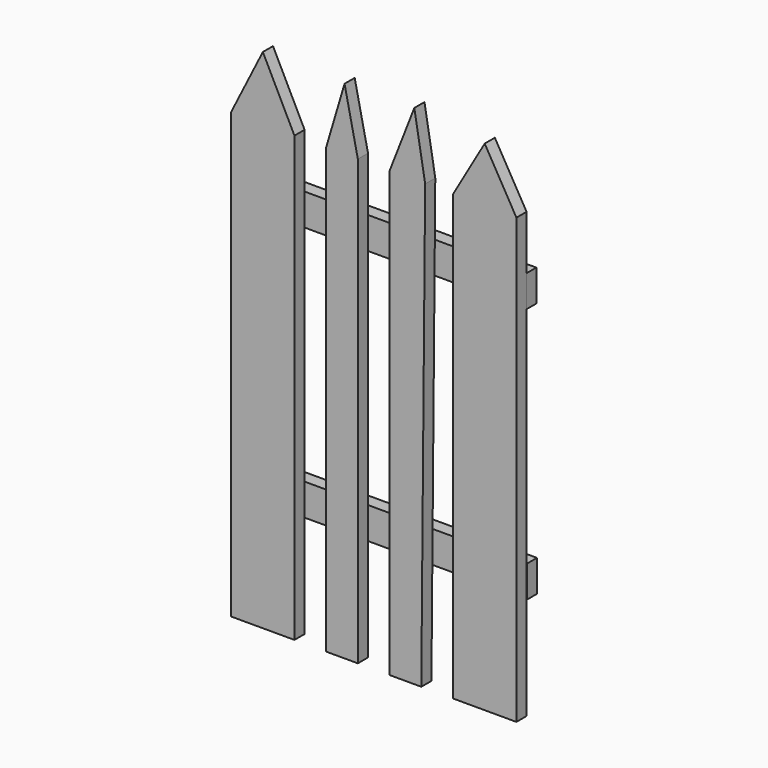
from build123d import *

# Parameters (mm, degrees)
F1_DEPTH = 4
F2_W     = 90
F2_H     = 10
F3_DEPTH = 4
F4_W     = 90
F4_H     = 10
F5_DEPTH = 4


with BuildPart() as f1:
    # F0 (on Front) → F1 (new body)
    with BuildSketch(Plane.XZ):
        Polygon((8.782633, 59.649963), (8.782633, -80.350037), (28.782633, -80.350037), (28.782633, 59.649963), (18.782633, 59.649963), align=None)
        Polygon((-11.217367, 59.64467), (-11.217367, -80.350037), (-1.217367, -80.350037), (0, 59.64467), (-5.608683, 59.64467), align=None)
        Polygon((-51.175786, 59.649963), (-61.217367, 59.649963), (-61.217367, -80.350037), (-41.217367, -80.350037), (-41.217367, 59.649963), align=None)
        Polygon((-31.217367, 59.649963), (-31.217367, -80.350037), (-21.217367, -80.350037), (-21.217367, 59.649963), (-26.200101, 59.649963), align=None)
        Polygon((18.782633, 59.649963), (28.782633, 59.649963), (18.782633, 76.970471), align=None)
        Polygon((18.782633, 76.970471), (8.782633, 59.649963), (18.782633, 59.649963), align=None)
        Polygon((-3.408567, 79.64467), (-11.217367, 59.64467), (-5.608683, 59.64467), align=None)
        Polygon((-25.412619, 79.20501), (-31.217367, 59.649963), (-26.200101, 59.649963), align=None)
        Polygon((-51.175786, 79.649963), (-61.217367, 59.649963), (-51.175786, 59.649963), align=None)
        Polygon((-41.217367, 59.649963), (-51.175786, 79.649963), (-51.175786, 59.649963), align=None)
        Polygon((-26.200101, 59.649963), (-21.217367, 59.649963), (-25.412619, 79.20501), align=None)
        Polygon((-5.608683, 59.64467), (0, 59.64467), (-3.408567, 79.64467), align=None)
    extrude(amount=F1_DEPTH)


with BuildPart() as f3:
    # F2 (on Front) → F3 (new body)
    with BuildSketch(Plane.XZ):
        with Locations((-16.344065, 37.501103)):
            Rectangle(F2_W, F2_H)
    extrude(amount=-F3_DEPTH)


with BuildPart() as f5:
    # F4 (on Front) → F5 (new body)
    with BuildSketch(Plane.XZ):
        with Locations((-16.131684, -43.027853)):
            Rectangle(F4_W, F4_H)
    extrude(amount=-F5_DEPTH)


solid = Compound([f1.part, f3.part, f5.part])
